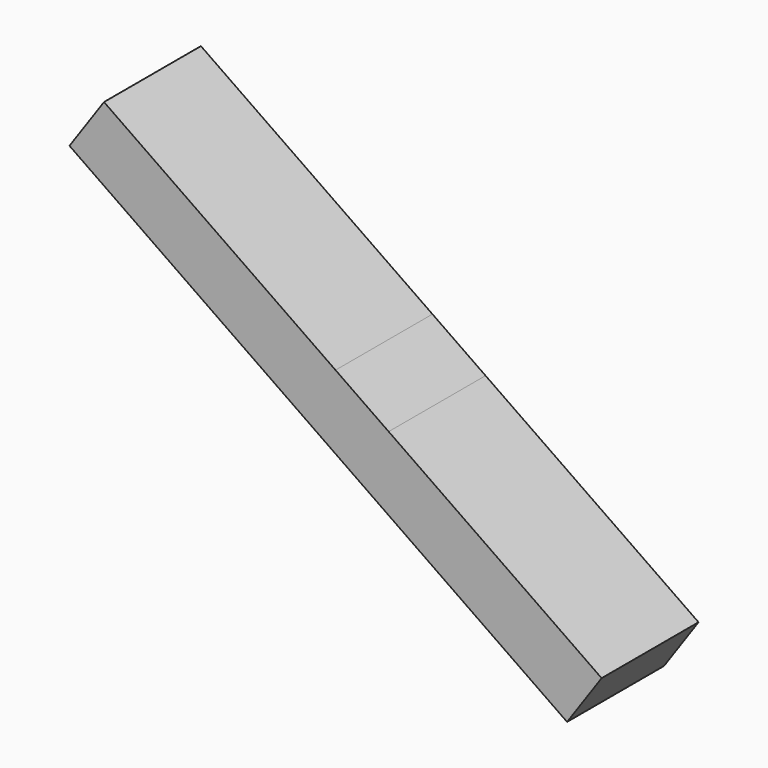
from build123d import *

# Parameters (mm, degrees)
F1_DEPTH = 25.4


with BuildPart() as f1:
    # F0 (on Front) → F1 (new body)
    with BuildSketch(Plane.XZ):
        Polygon((-28.9540575403, 10.388388148), (-77.4992547724, 44.0825872059), (-84.7407086472, 33.649402372), (-40.0906333431, 2.6587254148), align=None)
        Polygon((-17.8174817374, 2.6587254148), (-28.9540575403, 10.388388148), (-40.0906333431, 2.6587254148), (-28.9540575403, -5.0709373185), align=None)
        Polygon((26.8325935667, -28.3319515425), (-17.8174817374, 2.6587254148), (-28.9540575403, -5.0709373185), (19.5911396918, -38.7651363764), align=None)
    extrude(amount=F1_DEPTH)


solid = f1.part
